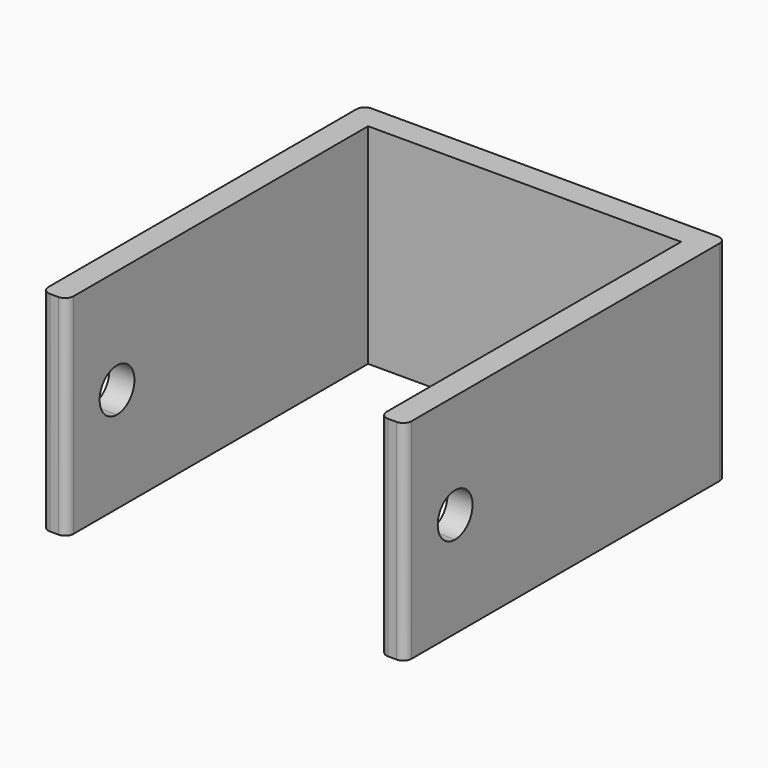
from build123d import *

# Parameters (mm, degrees)
F1_DEPTH      = 25
F3_DEPTH      = 40.401
F3_DEPTH_BACK = 25
F4_R          = 1
F5_R          = 1


with BuildPart() as f1:
    # F0 (on Top) → F1 (new body)
    with BuildSketch(Plane.XY):
        Polygon((43.4, 0), (0, 0), (0, -48), (3, -48), (3, -3), (40.4, -3), (40.4, -48), (43.4, -48), align=None)
    extrude(amount=F1_DEPTH)

    # F2 (on face) → F3 (cut, two sides)
    with BuildSketch(Plane(origin=(40.4, 0, 0), x_dir=(0, -1, 0), z_dir=(-1, 0, 0))) as f3_sk:
        with BuildLine():
            Line((40.5, 12.5), (40.5, 15.1))
            ThreePointArc((40.5, 15.1), (37.9, 12.5), (40.5, 9.9))
            Line((40.5, 9.9), (40.5, 12.5))
        make_face()
        with BuildLine():
            ThreePointArc((43.1, 12.5), (42.338478, 14.338478), (40.5, 15.1))
            Line((40.5, 15.1), (40.5, 12.5))
            Line((40.5, 12.5), (40.5, 9.9))
            ThreePointArc((40.5, 9.9), (42.338478, 10.661522), (43.1, 12.5))
        make_face()
    extrude(amount=F3_DEPTH, mode=Mode.SUBTRACT)
    extrude(f3_sk.sketch, amount=-F3_DEPTH_BACK, mode=Mode.SUBTRACT)

    # F4
    f4_edges = [f1.edges().sort_by_distance(p)[0] for p in [
        (0, -48, 12.5),
        (3, -48, 12.5),
        (40.4, -48, 12.5),
        (43.4, -48, 12.5),
        (0, 0, 12.5),
    ]]
    fillet(f4_edges, radius=F4_R)

    # F5
    f5_edges = [f1.edges().sort_by_distance(p)[0] for p in [
        (43.4, 0, 12.5),
    ]]
    fillet(f5_edges, radius=F5_R)


solid = f1.part
